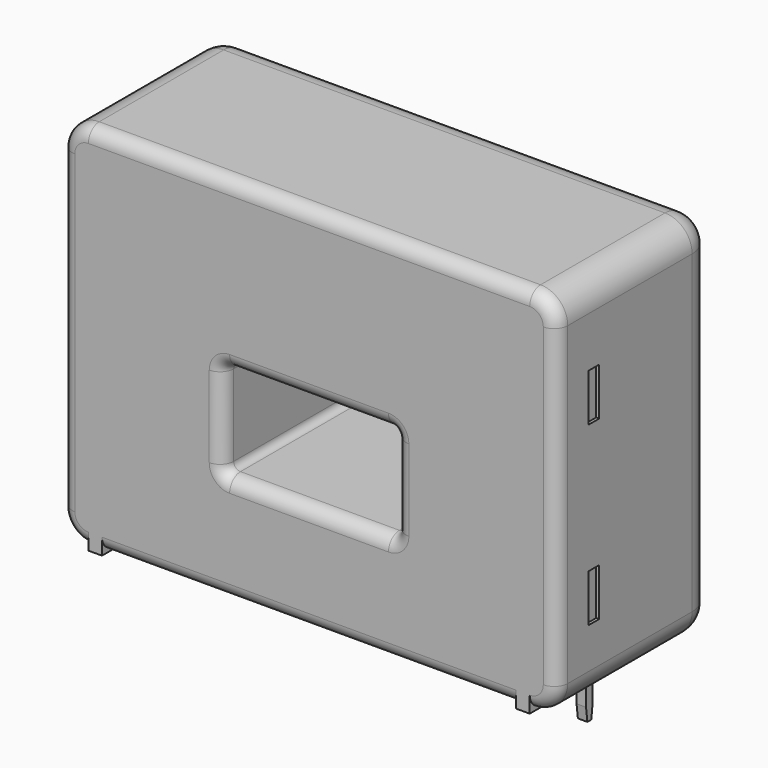
from build123d import *

# Parameters (mm, degrees)
BOX002_W           = 0.7
BOX002_H           = 0.6
BOX002_DEPTH       = 5
CHAMFER_1_SIZE2    = 0.12
CHAMFER_1_SIZE     = 1
CHAMFER_2_SIZE2    = 0.12
CHAMFER_2_SIZE     = 1
BOX001_W           = 0.7
BOX001_H           = 0.6
BOX001_DEPTH       = 5
CHAMFER001_1_SIZE2 = 0.12
CHAMFER001_1_SIZE  = 1
CHAMFER001_2_SIZE2 = 0.12
CHAMFER001_2_SIZE  = 1
BOX_W              = 0.7
BOX_H              = 0.6
BOX_DEPTH          = 5
CHAMFER002_1_SIZE2 = 0.12
CHAMFER002_1_SIZE  = 1
CHAMFER002_2_SIZE2 = 0.12
CHAMFER002_2_SIZE  = 1
BOX009_W           = 1
BOX009_H           = 1
BOX009_DEPTH       = 3.5
BOX008_W           = 1
BOX008_H           = 1
BOX008_DEPTH       = 3.5
BOX007_W           = 1
BOX007_H           = 1
BOX007_DEPTH       = 3.5
BOX006_W           = 1
BOX006_H           = 1
BOX006_DEPTH       = 3.5
BOX004_W           = 1
BOX004_H           = 14.45
BOX004_DEPTH       = 2.2
BOX005_W           = 1
BOX005_H           = 14.45
BOX005_DEPTH       = 2.2
BOX003_W           = 12.7
BOX003_H           = 29
BOX003_DEPTH       = 7
SKETCH_W           = 36.5
SKETCH_H           = 14.45
PAD_DEPTH          = 27.2
FILLET_R           = 0.5
FILLET001_R        = 1
FILLET002_R        = 1
FILLET003_R        = 2
FILLET004_R        = 2
FILLET005_R        = 1


with BuildPart() as chamfer_body:
    # Box002 → Box002 (new body)
    with BuildSketch(Plane(origin=(27.59, -0.3, -4.5), x_dir=(1, 0, 0), z_dir=(0, 0, 1))):
        with Locations((0.35, 0.3)):
            Rectangle(BOX002_W, BOX002_H)
    extrude(amount=BOX002_DEPTH)

    # Chamfer 1
    chamfer_1_edges = [chamfer_body.edges().sort_by_distance(p)[0] for p in [
        (27.94, 0.3, -4.5),
    ]]
    chamfer_1_side = chamfer_body.faces().sort_by_distance((27.94, 0.3, -2))[0]
    chamfer(chamfer_1_edges, length=CHAMFER_1_SIZE, length2=CHAMFER_1_SIZE2, reference=chamfer_1_side)

    # Chamfer 2
    chamfer_2_edges = [chamfer_body.edges().sort_by_distance(p)[0] for p in [
        (27.94, -0.3, -4.5),
    ]]
    chamfer_2_side = chamfer_body.faces().sort_by_distance((27.94, -0.3, -2))[0]
    chamfer(chamfer_2_edges, length=CHAMFER_2_SIZE, length2=CHAMFER_2_SIZE2, reference=chamfer_2_side)


with BuildPart() as chamfer001:
    # Box001 → Box001 (new body)
    with BuildSketch(Plane(origin=(4.73, -0.3, -4.5), x_dir=(1, 0, 0), z_dir=(0, 0, 1))):
        with Locations((0.35, 0.3)):
            Rectangle(BOX001_W, BOX001_H)
    extrude(amount=BOX001_DEPTH)

    # Chamfer001 1
    chamfer001_1_edges = [chamfer001.edges().sort_by_distance(p)[0] for p in [
        (5.08, 0.3, -4.5),
    ]]
    chamfer001_1_side = chamfer001.faces().sort_by_distance((5.08, 0.3, -2))[0]
    chamfer(chamfer001_1_edges, length=CHAMFER001_1_SIZE, length2=CHAMFER001_1_SIZE2, reference=chamfer001_1_side)

    # Chamfer001 2
    chamfer001_2_edges = [chamfer001.edges().sort_by_distance(p)[0] for p in [
        (5.08, -0.3, -4.5),
    ]]
    chamfer001_2_side = chamfer001.faces().sort_by_distance((5.08, -0.3, -2))[0]
    chamfer(chamfer001_2_edges, length=CHAMFER001_2_SIZE, length2=CHAMFER001_2_SIZE2, reference=chamfer001_2_side)


with BuildPart() as chamfer002:
    # Box → Box (new body)
    with BuildSketch(Plane(origin=(-0.35, -0.3, -4.5), x_dir=(1, 0, 0), z_dir=(0, 0, 1))):
        with Locations((0.35, 0.3)):
            Rectangle(BOX_W, BOX_H)
    extrude(amount=BOX_DEPTH)

    # Chamfer002 1
    chamfer002_1_edges = [chamfer002.edges().sort_by_distance(p)[0] for p in [
        (0, 0.3, -4.5),
    ]]
    chamfer002_1_side = chamfer002.faces().sort_by_distance((0, 0.3, -2))[0]
    chamfer(chamfer002_1_edges, length=CHAMFER002_1_SIZE, length2=CHAMFER002_1_SIZE2, reference=chamfer002_1_side)

    # Chamfer002 2
    chamfer002_2_edges = [chamfer002.edges().sort_by_distance(p)[0] for p in [
        (0, -0.3, -4.5),
    ]]
    chamfer002_2_side = chamfer002.faces().sort_by_distance((0, -0.3, -2))[0]
    chamfer(chamfer002_2_edges, length=CHAMFER002_2_SIZE, length2=CHAMFER002_2_SIZE2, reference=chamfer002_2_side)


with BuildPart() as kub009:
    # Box009 → Box009 (new body)
    with BuildSketch(Plane(origin=(-5, -5, 18), x_dir=(1, 0, 0), z_dir=(0, 0, 1))):
        with Locations((0.5, 0.5)):
            Rectangle(BOX009_W, BOX009_H)
    extrude(amount=BOX009_DEPTH)


with BuildPart() as kub008:
    # Box008 → Box008 (new body)
    with BuildSketch(Plane(origin=(-5, -5, 5), x_dir=(1, 0, 0), z_dir=(0, 0, 1))):
        with Locations((0.5, 0.5)):
            Rectangle(BOX008_W, BOX008_H)
    extrude(amount=BOX008_DEPTH)


with BuildPart() as kub007:
    # Box007 → Box007 (new body)
    with BuildSketch(Plane(origin=(32, -5, 18), x_dir=(1, 0, 0), z_dir=(0, 0, 1))):
        with Locations((0.5, 0.5)):
            Rectangle(BOX007_W, BOX007_H)
    extrude(amount=BOX007_DEPTH)


with BuildPart() as kub006:
    # Box006 → Box006 (new body)
    with BuildSketch(Plane(origin=(32, -5, 5), x_dir=(1, 0, 0), z_dir=(0, 0, 1))):
        with Locations((0.5, 0.5)):
            Rectangle(BOX006_W, BOX006_H)
    extrude(amount=BOX006_DEPTH)


with BuildPart() as kub004:
    # Box004 → Box004 (new body)
    with BuildSketch(Plane(origin=(-2.28, -7.9, -0.2), x_dir=(1, 0, 0), z_dir=(0, 0, 1))):
        with Locations((0.5, 7.225)):
            Rectangle(BOX004_W, BOX004_H)
    extrude(amount=BOX004_DEPTH)


with BuildPart() as kub005:
    # Box005 → Box005 (new body)
    with BuildSketch(Plane(origin=(29.22, -7.9, -0.2), x_dir=(1, 0, 0), z_dir=(0, 0, 1))):
        with Locations((0.5, 7.225)):
            Rectangle(BOX005_W, BOX005_H)
    extrude(amount=BOX005_DEPTH)


with BuildPart() as kub003:
    # Box003 → Box003 (new body)
    with BuildSketch(Plane(origin=(7.62, -14, 7.9), x_dir=(1, 0, 0), z_dir=(0, 0, 1))):
        with Locations((6.35, 14.5)):
            Rectangle(BOX003_W, BOX003_H)
    extrude(amount=BOX003_DEPTH)


with BuildPart() as cut004:
    # Sketch → Pad (new body)
    with BuildSketch(Plane.XY):
        with Locations((13.97, -0.675)):
            Rectangle(SKETCH_W, SKETCH_H)
    extrude(amount=PAD_DEPTH)

    # Cut: cut Kub003
    add(kub003.part, mode=Mode.SUBTRACT)

    # Fillet
    fillet_edges = [cut004.edges().sort_by_distance(p)[0] for p in [
        (7.62, -0.675, 14.9),
        (20.32, -0.675, 14.9),
        (20.32, -0.675, 7.9),
        (7.62, -0.675, 7.9),
    ]]
    fillet(fillet_edges, radius=FILLET_R)

    # Fillet001
    fillet001_edges = [cut004.edges().sort_by_distance(p)[0] for p in [
        (13.97, -7.9, 14.9),
        (7.766447, -7.9, 14.753553),
        (20.173553, -7.9, 14.753553),
        (7.62, -7.9, 11.4),
        (20.32, -7.9, 11.4),
        (7.766447, -7.9, 8.046447),
        (20.173553, -7.9, 8.046447),
        (13.97, -7.9, 7.9),
    ]]
    fillet(fillet001_edges, radius=FILLET001_R)

    # Fillet002
    fillet002_edges = [cut004.edges().sort_by_distance(p)[0] for p in [
        (13.97, 6.55, 14.9),
        (20.173553, 6.55, 14.753553),
        (7.62, 6.55, 11.4),
        (20.32, 6.55, 11.4),
        (7.766447, 6.55, 8.046447),
        (20.173553, 6.55, 8.046447),
        (13.97, 6.55, 7.9),
    ]]
    fillet(fillet002_edges, radius=FILLET002_R)

    # Fillet003
    fillet003_edges = [cut004.edges().sort_by_distance(p)[0] for p in [
        (-4.28, -0.675, 0),
        (-4.28, -0.675, 27.2),
        (32.22, -0.675, 0),
        (32.22, -0.675, 27.2),
    ]]
    fillet(fillet003_edges, radius=FILLET003_R)

    # Fillet004
    fillet004_edges = [cut004.edges().sort_by_distance(p)[0] for p in [
        (-4.28, 6.55, 13.6),
        (-3.694214, 6.55, 0.585786),
        (-3.694214, 6.55, 26.614214),
        (13.97, 6.55, 0),
        (13.97, 6.55, 27.2),
        (31.634214, 6.55, 0.585786),
        (31.634214, 6.55, 26.614214),
        (32.22, 6.55, 13.6),
    ]]
    fillet(fillet004_edges, radius=FILLET004_R)

    # Fillet005
    fillet005_edges = [cut004.edges().sort_by_distance(p)[0] for p in [
        (-4.28, -7.9, 13.6),
        (13.97, -7.9, 0),
        (13.97, -7.9, 27.2),
        (32.22, -7.9, 13.6),
        (-3.694214, -7.9, 0.585786),
        (31.634214, -7.9, 0.585786),
        (31.634214, -7.9, 26.614214),
        (-3.694214, -7.9, 26.614214),
    ]]
    fillet(fillet005_edges, radius=FILLET005_R)

    # Fusion: union Kub004, Kub005
    add(kub004.part)
    add(kub005.part)

    # Cut001: cut Kub006
    add(kub006.part, mode=Mode.SUBTRACT)

    # Cut002: cut Kub007
    add(kub007.part, mode=Mode.SUBTRACT)

    # Cut003: cut Kub008
    add(kub008.part, mode=Mode.SUBTRACT)

    # Cut004: cut Kub009
    add(kub009.part, mode=Mode.SUBTRACT)


solid = Compound([chamfer_body.part, chamfer001.part, chamfer002.part, cut004.part])
